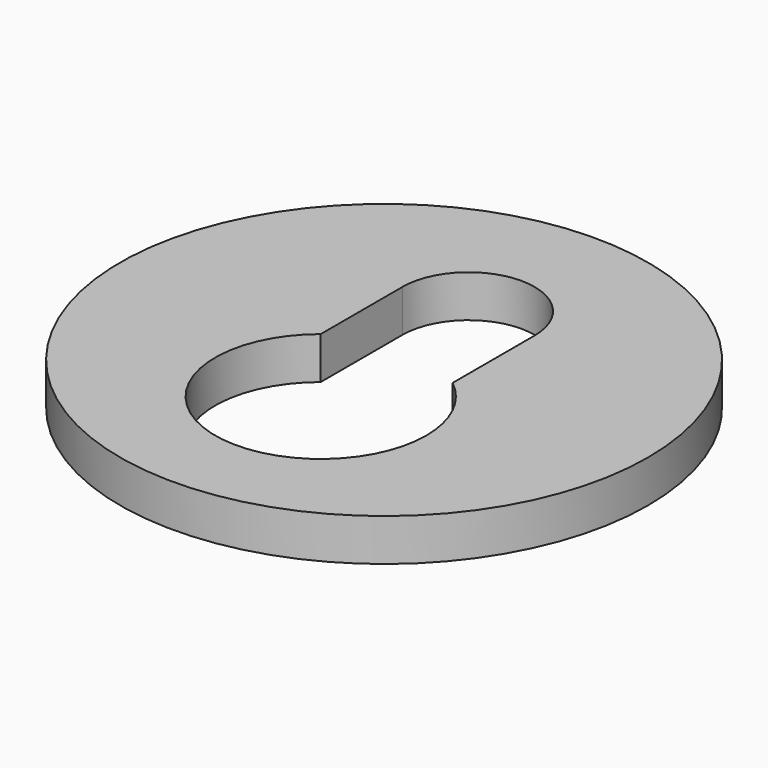
from build123d import *

# Parameters (mm, degrees)
F0_R     = 12.7
F1_DEPTH = 2.032


with BuildPart() as f1:
    # F0 (on Top) → F1 (new body)
    with BuildSketch(Plane.XY):
        Circle(F0_R)
        with BuildLine():
            ThreePointArc((3.175, 0.155574), (4.57905, -1.610295), (5.08, -3.81))
            ThreePointArc((5.08, -3.81), (-2.199705, -8.38905), (-3.175, 0.155574))
            Line((-3.175, 0.155574), (-3.175, 5.08))
            ThreePointArc((-3.175, 5.08), (0, 8.255), (3.175, 5.08))
            Line((3.175, 5.08), (3.175, 0.155574))
        make_face(mode=Mode.SUBTRACT)
    extrude(amount=F1_DEPTH)


solid = f1.part
